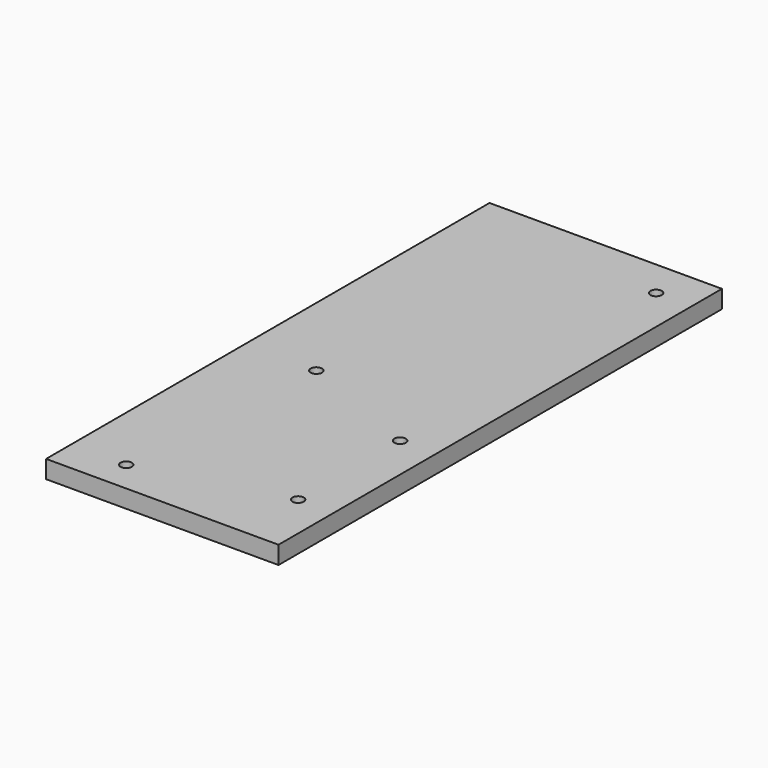
from build123d import *

# Parameters (mm, degrees)
F0_W     = 200
F0_H     = 200
F1_DEPTH = 5
F2_R     = 1.5875
F3_DEPTH = 5.001
F4_R     = 1.5875
F5_DEPTH = 25


with BuildPart() as f1:
    # F0 (on Top) → F1 (new body)
    with BuildSketch(Plane.XY):
        Rectangle(F0_W, F0_H)
    extrude(amount=F1_DEPTH)

    # F2 (on face) → F3 (cut, through all)
    with BuildSketch(Plane.XY.offset(5)):
        Circle(F2_R)
        with Locations((0, -35.65053)):
            Circle(F2_R)
        with Locations((-39.612573, -46.225714)):
            Circle(F2_R)
        with Locations((-35, 14.476054)):
            Circle(F2_R)
        with Locations((0, 89.476054)):
            Circle(F2_R)
    extrude(amount=-F3_DEPTH, mode=Mode.SUBTRACT)

    # F4 (on face) → F5 (cut)
    with BuildSketch(Plane.XY.offset(5)):
        Polygon((-55, -55), (-55, 100), (-100, 100), (-100, -100), (100, -100), (100, 100), (10, 100), (10, -55), align=None)
        Circle(F4_R)
        with Locations((0, -35.65053)):
            Circle(F4_R)
        with Locations((-39.612573, -46.225714)):
            Circle(F4_R)
        with Locations((-35, 14.476054)):
            Circle(F4_R)
        with Locations((0, 89.476054)):
            Circle(F4_R)
    extrude(amount=-F5_DEPTH, mode=Mode.SUBTRACT)


solid = f1.part
